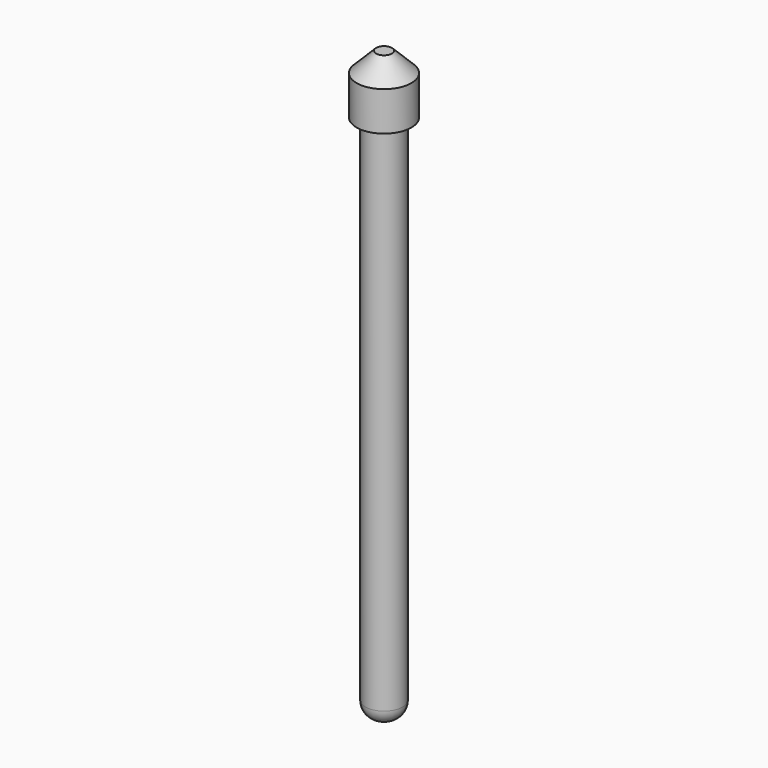
from build123d import *

# Parameters (mm, degrees)
F0_R     = 0.475
F1_DEPTH = 15
F2_START = 13.5
F0_R_2   = 0.7
F2_DEPTH = 1.5
F3_SIZE  = 0.5
F4_R     = 0.4


with BuildPart() as f1:
    # F0 (on Top) → F1 (new body)
    with BuildSketch(Plane.XY):
        Circle(F0_R)
    extrude(amount=F1_DEPTH)

    # F0 (on Top) → F2 (join)
    with BuildSketch(Plane.XY.offset(F2_START)):
        Circle(F0_R_2)
        Circle(F0_R, mode=Mode.SUBTRACT)
    extrude(amount=F2_DEPTH)

    # F3
    f3_edges = [f1.edges().sort_by_distance(p)[0] for p in [
        (-0.7, 0, 15),
    ]]
    chamfer(f3_edges, length=F3_SIZE)

    # F4
    f4_edges = [f1.edges().sort_by_distance(p)[0] for p in [
        (-0.475, 0, 0),
    ]]
    fillet(f4_edges, radius=F4_R)


solid = f1.part
